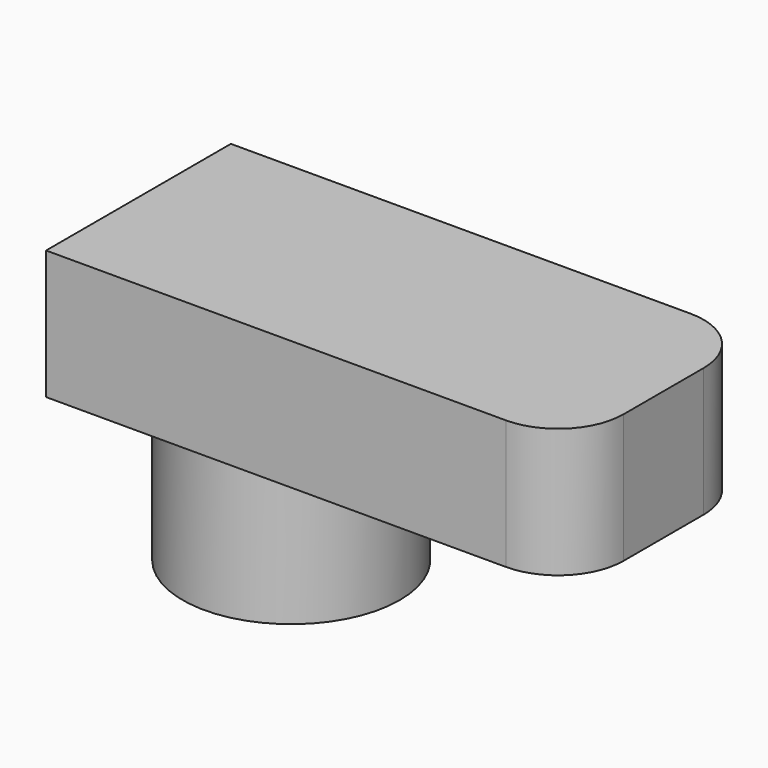
from build123d import *

# Parameters (mm, degrees)
F0_W     = 103.353604
F0_H     = 45.458422
F1_DEPTH = 25.4
F2_R     = 12.877415
F3_R     = 21.377303
F4_DEPTH = 27.686


with BuildPart() as f1:
    # F0 (on Top) → F1 (new body)
    with BuildSketch(Plane.XY):
        Rectangle(F0_W, F0_H)
        Rectangle(F0_W, F0_H)
    extrude(amount=F1_DEPTH)

    # F2
    f2_edges = [f1.edges().sort_by_distance(p)[0] for p in [
        (51.676802, 22.729211, 12.7),
        (51.676802, -22.729211, 12.7),
    ]]
    fillet(f2_edges, radius=F2_R)

    # F3 (on Top) → F4 (join)
    with BuildSketch(Plane.XY):
        with Locations((-21.615615, 0)):
            Circle(F3_R)
    extrude(amount=-F4_DEPTH)


solid = f1.part
